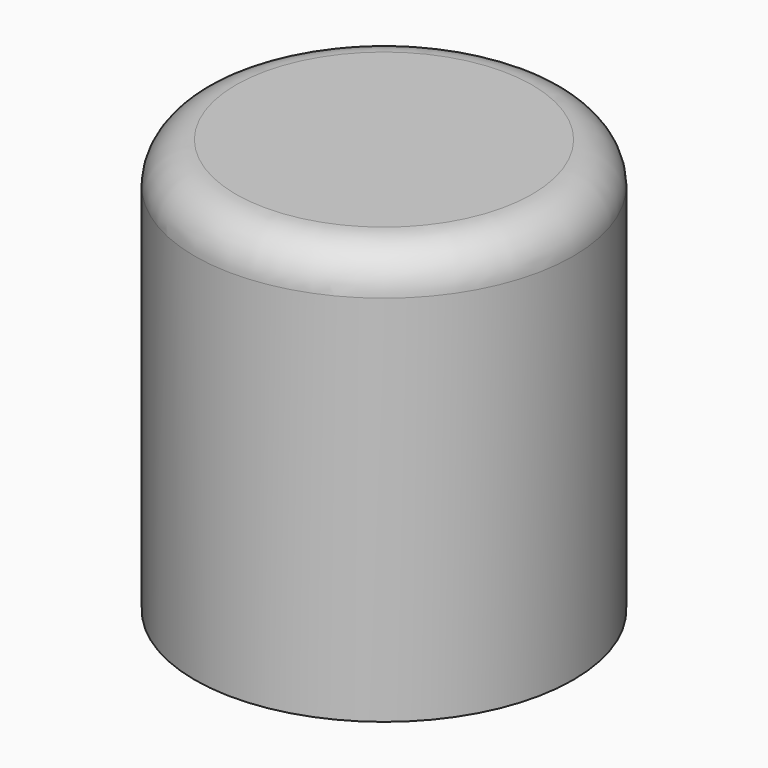
from build123d import *


with BuildPart() as f2:
    # F1 (on Front) → F2 (revolve)
    with BuildSketch(Plane.XZ):
        with BuildLine():
            Line((2.55, 5.4), (2.55, 0))
            Line((2.55, 0), (3.45, 0))
            Line((3.45, 0), (3.45, 6.8))
            ThreePointArc((3.45, 6.8), (3.23033, 7.33033), (2.7, 7.55))
            Line((2.7, 7.55), (0, 7.55))
            Line((0, 7.55), (0, 6.4))
            Line((0, 6.4), (1.195, 6.4))
            Line((1.195, 6.4), (1.195, 5.4))
            Line((1.195, 5.4), (2.55, 5.4))
        make_face()
    revolve(axis=Axis((0, 0, 28.272759), (0, 0, 1)))


solid = f2.part
